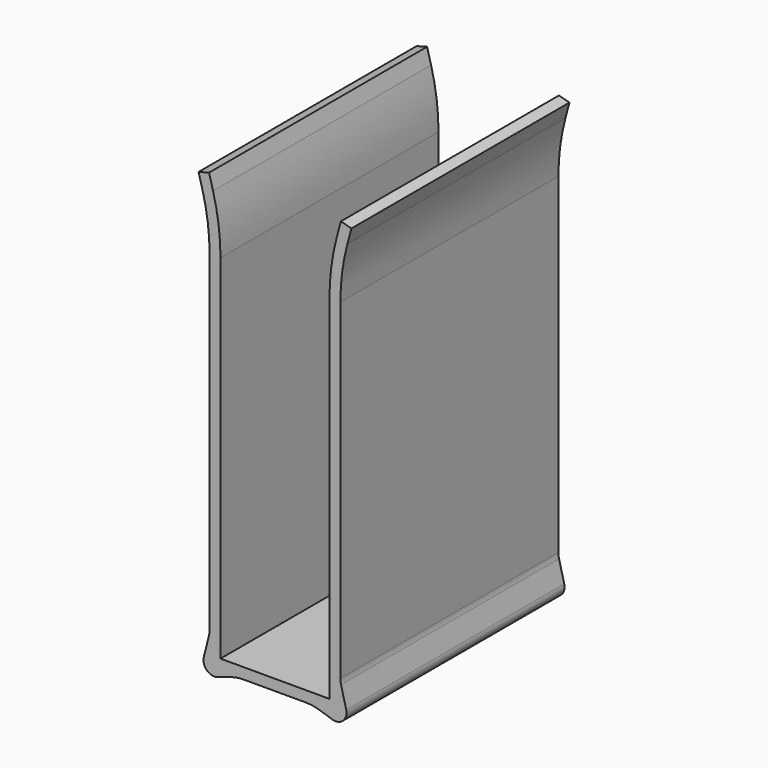
from build123d import *

# Parameters (mm, degrees)
F1_DEPTH = 63.5


with BuildPart() as f1:
    # F0 (on Front) → F1 (new body)
    with BuildSketch(Plane.XZ):
        with BuildLine():
            Line((-12.7, -36.097638), (-12.7, 46.114415))
            ThreePointArc((-12.7, 46.114415), (-13.134601, 52.745145), (-14.430968, 59.262422))
            Line((-14.430968, 59.262422), (-15.356759, 62.71752))
            Line((-15.356759, 62.71752), (-17.81021, 62.060119))
            Line((-17.81021, 62.060119), (-16.884419, 58.605022))
            ThreePointArc((-16.884419, 58.605022), (-15.652871, 52.413609), (-15.24, 46.114415))
            Line((-15.24, 46.114415), (-15.24, -31.054161))
            ThreePointArc((-15.24, -31.054161), (-15.278329, -31.677022), (-15.392738, -32.290484))
            Line((-15.392738, -32.290484), (-16.592705, -37.072855))
            ThreePointArc((-16.592705, -37.072855), (-15.860782, -39.549184), (-13.339088, -40.105042))
            Line((-13.339088, -40.105042), (-10.394814, -39.141533))
            ThreePointArc((-10.394814, -39.141533), (-8.834804, -38.764403), (-7.234871, -38.637638))
            Line((-7.234871, -38.637638), (0, -38.637638))
            Line((0, -38.637638), (7.234871, -38.637638))
            ThreePointArc((7.234871, -38.637638), (8.834804, -38.764403), (10.394814, -39.141533))
            Line((10.394814, -39.141533), (13.339088, -40.105042))
            ThreePointArc((13.339088, -40.105042), (15.860782, -39.549184), (16.592705, -37.072855))
            Line((16.592705, -37.072855), (15.392738, -32.290484))
            ThreePointArc((15.392738, -32.290484), (15.278329, -31.677022), (15.24, -31.054161))
            Line((15.24, -31.054161), (15.24, 46.114415))
            ThreePointArc((15.24, 46.114415), (15.652871, 52.413609), (16.884419, 58.605022))
            Line((16.884419, 58.605022), (17.81021, 62.060119))
            Line((17.81021, 62.060119), (15.356759, 62.71752))
            Line((15.356759, 62.71752), (14.430968, 59.262422))
            ThreePointArc((14.430968, 59.262422), (13.134601, 52.745145), (12.7, 46.114415))
            Line((12.7, 46.114415), (12.7, -36.097638))
            Line((12.7, -36.097638), (0, -36.097638))
            Line((0, -36.097638), (-12.7, -36.097638))
        make_face()
    extrude(amount=F1_DEPTH)


solid = f1.part
